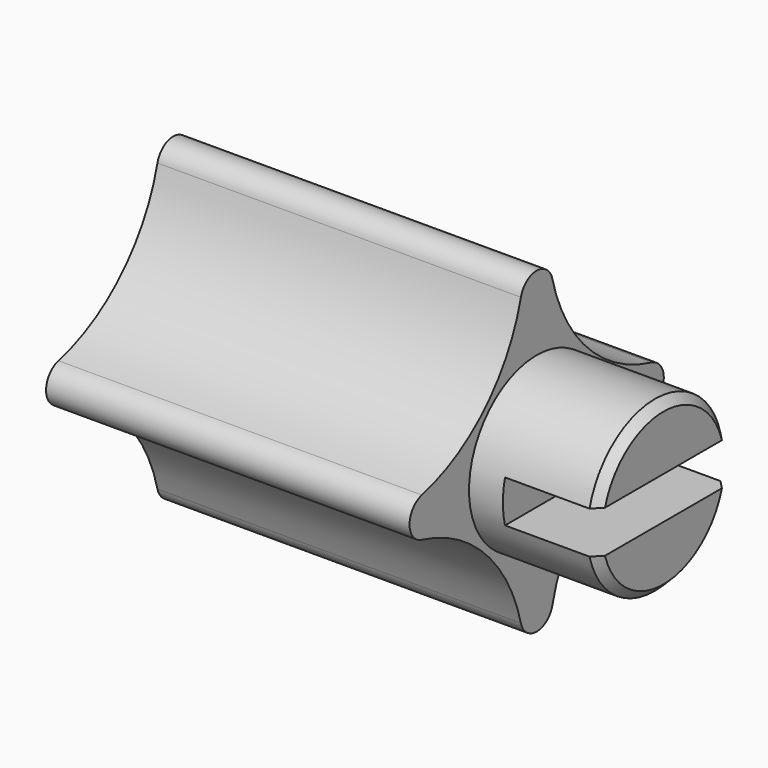
from build123d import *

# Parameters (mm, degrees)
F1_DEPTH = 21.5
F2_R     = 5
F3_DEPTH = 7.5
F4_SIZE  = 0.5
F6_DEPTH = 5.5


with BuildPart() as f1:
    # F0 (on Right) → F1 (new body)
    with BuildSketch(Plane.YZ):
        with BuildLine():
            ThreePointArc((-1.1652526978, 8.4866812693), (-0.1443896855, 7.0087184973), (1.2, 8.2))
            ThreePointArc((1.2, 8.2), (1.1912815027, 8.3443896855), (1.1652526978, 8.4866812693))
            ThreePointArc((1.1652526978, 8.4866812693), (0, 9.4), (-1.1652526978, 8.4866812693))
        make_face()
        with BuildLine():
            ThreePointArc((1.1652526978, 8.4866812693), (1.1912815027, 8.3443896855), (1.2, 8.2))
            ThreePointArc((1.2, 8.2), (-0.1443896855, 7.0087184973), (-1.1652526978, 8.4866812693))
            ThreePointArc((-1.1652526978, 8.4866812693), (-3.8046240347, 3.8046240347), (-8.4866812693, 1.1652526978))
            ThreePointArc((-8.4866812693, 1.1652526978), (-7.4597356969, 0.9444621547), (-7, 0))
            ThreePointArc((-7, 0), (-7.4597356969, -0.9444621547), (-8.4866812693, -1.1652526978))
            ThreePointArc((-8.4866812693, -1.1652526978), (-3.8046240347, -3.8046240347), (-1.1652526978, -8.4866812693))
            ThreePointArc((-1.1652526978, -8.4866812693), (-0.1443896855, -7.0087184973), (1.2, -8.2))
            ThreePointArc((1.2, -8.2), (1.1912815027, -8.3443896855), (1.1652526978, -8.4866812693))
            ThreePointArc((1.1652526978, -8.4866812693), (3.8046240347, -3.8046240347), (8.4866812693, -1.1652526978))
            ThreePointArc((8.4866812693, -1.1652526978), (7, 0), (8.4866812693, 1.1652526978))
            ThreePointArc((8.4866812693, 1.1652526978), (3.8046240347, 3.8046240347), (1.1652526978, 8.4866812693))
        make_face()
        with BuildLine():
            ThreePointArc((9.4, 0), (9.1444621547, 0.7402643031), (8.4866812693, 1.1652526978))
            ThreePointArc((8.4866812693, 1.1652526978), (7, 0), (8.4866812693, -1.1652526978))
            ThreePointArc((8.4866812693, -1.1652526978), (9.1444621547, -0.7402643031), (9.4, 0))
        make_face()
        with BuildLine():
            ThreePointArc((-7, 0), (-7.4597356969, 0.9444621547), (-8.4866812693, 1.1652526978))
            ThreePointArc((-8.4866812693, 1.1652526978), (-9.4, 0), (-8.4866812693, -1.1652526978))
            ThreePointArc((-8.4866812693, -1.1652526978), (-7.4597356969, -0.9444621547), (-7, 0))
        make_face()
        with BuildLine():
            ThreePointArc((-1.1652526978, -8.4866812693), (0, -9.4), (1.1652526978, -8.4866812693))
            ThreePointArc((1.1652526978, -8.4866812693), (1.1912815027, -8.3443896855), (1.2, -8.2))
            ThreePointArc((1.2, -8.2), (-0.1443896855, -7.0087184973), (-1.1652526978, -8.4866812693))
        make_face()
    extrude(amount=F1_DEPTH)

    # F2 (on face) → F3 (join)
    with BuildSketch(Plane.YZ.offset(21.5)):
        Circle(F2_R)
    extrude(amount=F3_DEPTH)

    # F4
    f4_edges = [f1.edges().sort_by_distance(p)[0] for p in [
        (29, -5, 0),
    ]]
    chamfer(f4_edges, length=F4_SIZE)

    # F5 (on face) → F6 (cut)
    with BuildSketch(Plane.YZ.offset(29)):
        with BuildLine():
            ThreePointArc((4.5, 0), (4.4555060613, 0.6312414261), (4.3229041164, 1.25))
            Line((4.3229041164, 1.25), (-4.3229041164, 1.25))
            ThreePointArc((-4.3229041164, 1.25), (-4.5, 0), (-4.3229041164, -1.25))
            Line((-4.3229041164, -1.25), (4.3229041164, -1.25))
            ThreePointArc((4.3229041164, -1.25), (4.4555060613, -0.6312414261), (4.5, 0))
        make_face()
        with BuildLine():
            Line((-4.3229041164, 1.25), (-4.8412291828, 1.25))
            ThreePointArc((-4.8412291828, 1.25), (-5, 0), (-4.8412291828, -1.25))
            Line((-4.8412291828, -1.25), (-4.3229041164, -1.25))
            ThreePointArc((-4.3229041164, -1.25), (-4.5, 0), (-4.3229041164, 1.25))
        make_face()
        with BuildLine():
            ThreePointArc((4.8412291828, -1.25), (4.9601484813, -0.6300214624), (5, 0))
            ThreePointArc((5, 0), (4.9601484813, 0.6300214624), (4.8412291828, 1.25))
            Line((4.8412291828, 1.25), (4.3229041164, 1.25))
            ThreePointArc((4.3229041164, 1.25), (4.4555060613, 0.6312414261), (4.5, 0))
            ThreePointArc((4.5, 0), (4.4555060613, -0.6312414261), (4.3229041164, -1.25))
            Line((4.3229041164, -1.25), (4.8412291828, -1.25))
        make_face()
    extrude(amount=-F6_DEPTH, mode=Mode.SUBTRACT)


solid = f1.part
